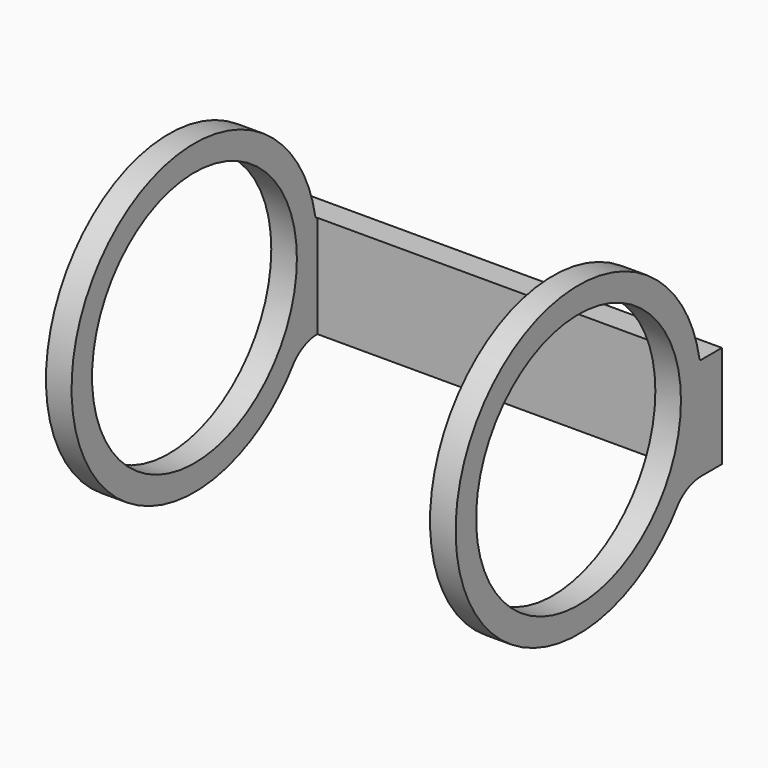
from build123d import *

# Parameters (mm, degrees)
F0_R     = 31.75
F1_DEPTH = 6.35
F2_W     = 6.35
F2_H     = 25.399766
F3_DEPTH = 44.45


with BuildPart() as f1:
    # F0 (on Right) → F1 (new body)
    with BuildSketch(Plane.YZ):
        with BuildLine():
            ThreePointArc((37.479318, 6.849139), (33.890578, 17.408007), (27.398215, 26.475419))
            ThreePointArc((27.398215, 26.475419), (-37.580446, 6.270574), (17.318016, -33.936652))
            ThreePointArc((17.318016, -33.936652), (24.856502, -28.874977), (30.983175, -22.173246))
            ThreePointArc((30.983175, -22.173246), (36.27719, -11.64369), (38.1, 0))
            ThreePointArc((38.1, 0), (37.944512, 3.438602), (37.479318, 6.849139))
        make_face()
        Circle(F0_R, mode=Mode.SUBTRACT)
        with BuildLine():
            ThreePointArc((38.083032, 6.349766), (37.691291, 6.490788), (37.479318, 6.849139))
            ThreePointArc((37.479318, 6.849139), (37.944512, 3.438602), (38.1, 0))
            ThreePointArc((38.1, 0), (36.27719, -11.64369), (30.983175, -22.173246))
            ThreePointArc((30.983175, -22.173246), (34.214004, -19.86517), (38.1, -19.05))
            Line((38.1, -19.05), (44.45, -19.05))
            Line((44.45, -19.05), (44.45, 6.349766))
            Line((44.45, 6.349766), (38.083032, 6.349766))
        make_face()
    extrude(amount=F1_DEPTH)

    # F2 (on face) → F3 (join)
    with BuildSketch(Plane.YZ.offset(6.35)):
        with Locations((41.275, -6.350117)):
            Rectangle(F2_W, F2_H)
    extrude(amount=F3_DEPTH)

    # F4: F1 across face


with BuildPart() as f1_1:
    add(f1.part)
    add(f1.part.mirror(Plane(origin=(50.8, 41.275, -6.350117), x_dir=(0, 1, 0), z_dir=(1, 0, 0))))


solid = f1_1.part
